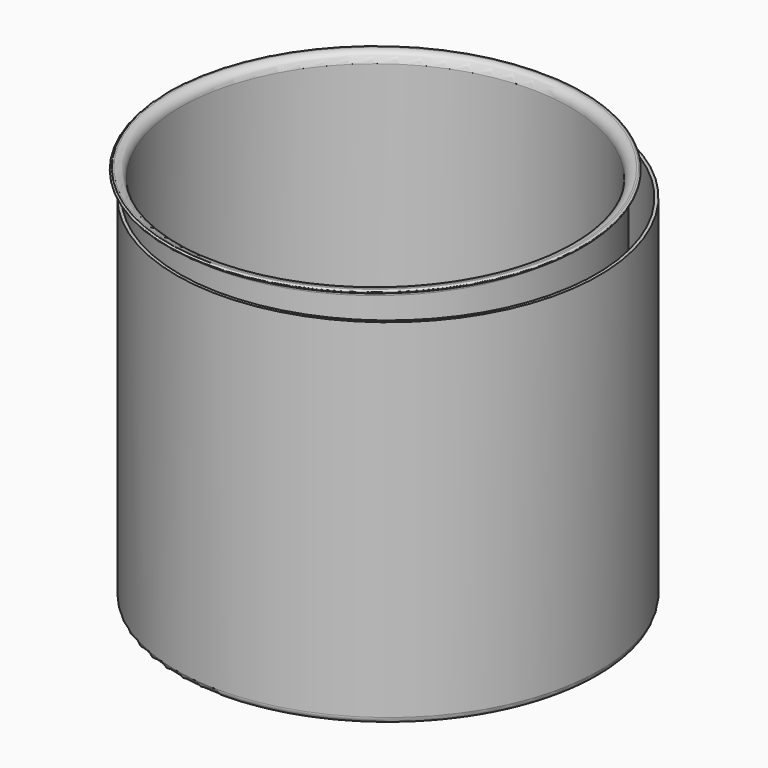
from build123d import *

# Parameters (mm, degrees)
F0_R     = 165.1
F1_DEPTH = 2.54
F2_R     = 165.1
F2_R_2   = 162.56
F3_DEPTH = 228.6


with BuildPart() as f1:
    # F0 (on Top) → F1 (new body)
    with BuildSketch(Plane.XY):
        Circle(F0_R)
    extrude(amount=F1_DEPTH)

    # F2 (on face) → F3 (join)
    with BuildSketch(Plane.XY.offset(2.54)):
        Circle(F2_R)
        Circle(F2_R_2, mode=Mode.SUBTRACT)
    extrude(amount=F3_DEPTH)


with BuildPart() as f5:
    # F4 (on Front) → F5 (revolve)
    with BuildSketch(Plane.XZ):
        with BuildLine():
            Line((-152.4, 0), (0, 0))
            Line((0, 0), (0, 2.54))
            Line((0, 2.54), (-152.4, 2.54))
            ThreePointArc((-152.4, 2.54), (-154.196051, 3.283949), (-154.94, 5.08))
            Line((-154.94, 5.08), (-154.94, 220.98))
            ThreePointArc((-154.94, 220.98), (-157.171846, 226.368154), (-162.56, 228.6))
            Line((-162.56, 228.6), (-163.83, 228.6))
            ThreePointArc((-163.83, 228.6), (-164.728026, 228.228026), (-165.1, 227.33))
            ThreePointArc((-165.1, 227.33), (-164.728026, 226.431974), (-163.83, 226.06))
            Line((-163.83, 226.06), (-162.56, 226.06))
            ThreePointArc((-162.56, 226.06), (-158.967898, 224.572102), (-157.48, 220.98))
            Line((-157.48, 220.98), (-157.48, 5.08))
            ThreePointArc((-157.48, 5.08), (-155.992102, 1.487898), (-152.4, 0))
        make_face()
    revolve(axis=Axis((0, 0, 1.27), (0, 0, -1)))


with BuildPart() as f8:
    # F7 (on Front) → F8 (revolve)
    with BuildSketch(Plane.XZ):
        with BuildLine():
            Line((-153.110462, -70.898215), (10.084538, -70.898215))
            Line((10.084538, -70.898215), (10.084538, -68.358215))
            Line((10.084538, -68.358215), (-153.110462, -68.358215))
            ThreePointArc((-153.110462, -68.358215), (-154.906513, -67.614267), (-155.650462, -65.818215))
            Line((-155.650462, -65.818215), (-155.650462, 211.210877))
            Line((-155.650462, 211.210877), (-158.190462, 211.210877))
            Line((-158.190462, 211.210877), (-158.190462, -65.818215))
            ThreePointArc((-158.190462, -65.818215), (-156.702564, -69.410318), (-153.110462, -70.898215))
        make_face()
    revolve(axis=Axis((10.084538, 0, -69.628215), (0, 0, -1)))


solid = Compound([f5.part, f8.part])
